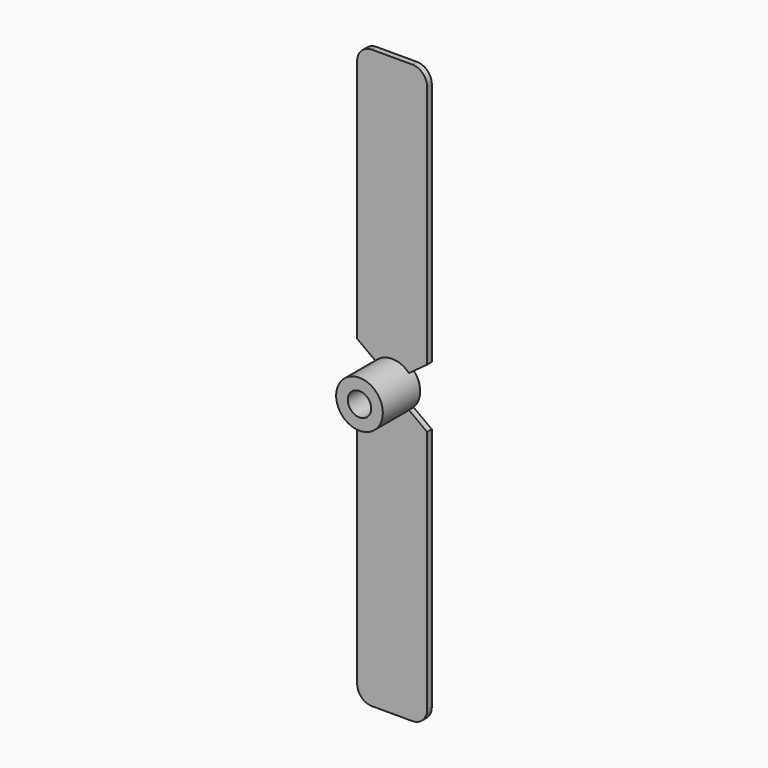
from build123d import *

# Parameters (mm, degrees)
F0_R     = 4
F0_R_2   = 2
F1_DEPTH = 8
F3_DEPTH = 1
F4_R     = 2.54


with BuildPart() as f1:
    # F0 (on Front) → F1 (new body)
    with BuildSketch(Plane.XZ):
        Circle(F0_R)
        Circle(F0_R_2, mode=Mode.SUBTRACT)
    extrude(amount=F1_DEPTH)

    # F2 (on Front) → F3 (join)
    with BuildSketch(Plane.XZ):
        Polygon((5.9944, 49.53), (-6.0056, 49.53), (-6.0056, 5.08), (-2.54, 2.54), (2.54, 2.54), (5.9944, 5.08), align=None)
        Polygon((-5.9944, -5.08), (-5.9944, -49.53), (5.9944, -49.53), (5.9944, -5.08), (2.54, -2.54), (-2.54, -2.54), align=None)
    extrude(amount=F3_DEPTH)

    # F4
    f4_edges = [f1.edges().sort_by_distance(p)[0] for p in [
        (-6.0056, -0.5, 49.53),
        (5.9944, -0.5, 49.53),
        (5.9944, -0.5, -49.53),
        (-5.9944, -0.5, -49.53),
    ]]
    fillet(f4_edges, radius=F4_R)


solid = f1.part
